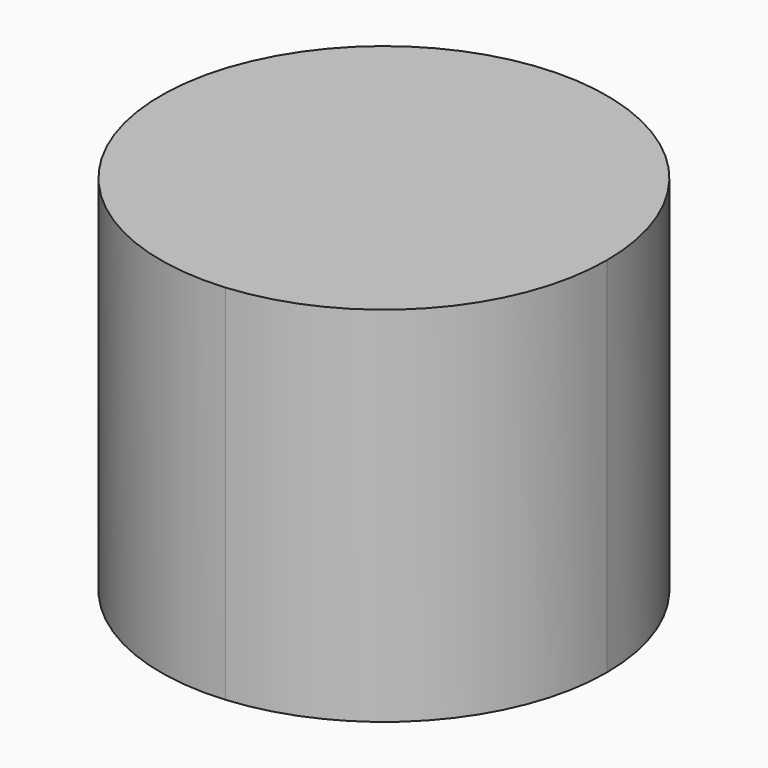
from build123d import *

# Parameters (mm, degrees)
F1_DEPTH = 7


with BuildPart() as f1:
    # F0 (on Top) → F1 (new body)
    with BuildSketch(Plane.XY):
        with BuildLine():
            ThreePointArc((21.7918684657, -37.5860697512), (20.3465348318, -34.3703458921), (16.9821568667, -33.3163866147))
            add(Edge.make_bspline(
                [(17.8652917953, -41.8698245314), (17.5505417459, -37.4847211708), (16.9821568667, -33.3163866147)],
                knots=[4.9160342653, 4.9160342653, 4.9160342653, 5.0862495657, 5.0862495657, 5.0862495657], degree=2, weights=[1, 0.9963805295, 1]))
            ThreePointArc((17.8652917953, -41.8698245314), (20.6617044486, -40.491605819), (21.7918684657, -37.5860697512))
        make_face()
        with BuildLine():
            add(Edge.make_bspline(
                [(17.8652917953, -41.8698245314), (17.5505417459, -37.4847211708), (16.9821568667, -33.3163866147)],
                knots=[4.9160342653, 4.9160342653, 4.9160342653, 5.0862495657, 5.0862495657, 5.0862495657], degree=2, weights=[1, 0.9963805295, 1]))
            ThreePointArc((16.9821568667, -33.3163866147), (13.2146066463, -38.0276932654), (17.8652917953, -41.8698245314))
        make_face()
    extrude(amount=F1_DEPTH)


solid = f1.part
